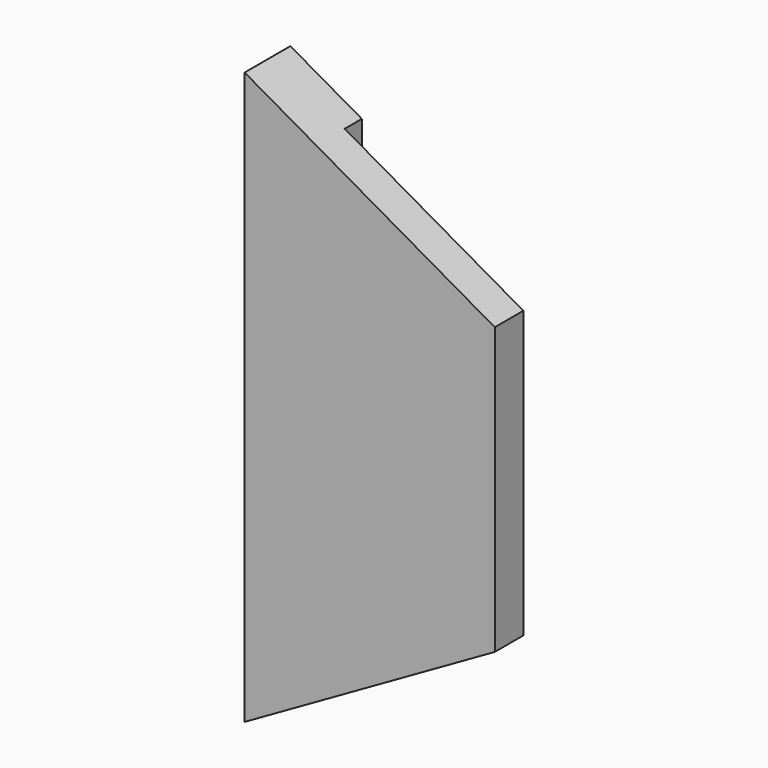
from build123d import *

# Parameters (mm, degrees)
SKETCH055_W      = 6
SKETCH055_H      = 16
EXTRUDE052_DEPTH = 1.6
EXTRUDE057_DEPTH = 1.6


with BuildPart() as extrude052:
    # Sketch055 → Extrude052 (new body)
    with BuildSketch(Plane.XZ.offset(-4.3)):
        with Locations((35, 12)):
            Rectangle(SKETCH055_W, SKETCH055_H)
    extrude(amount=EXTRUDE052_DEPTH)


with BuildPart() as switch_protector002:
    # Sketch054 → Extrude057 (new body)
    with BuildSketch(Plane.XZ.offset(-5.3)):
        Polygon((37, 16), (37, 8), (30, 4), (30, 20), align=None)
    extrude(amount=EXTRUDE057_DEPTH)

    # Cut029: cut Extrude052
    add(extrude052.part, mode=Mode.SUBTRACT)


with BuildPart() as switch_protector002_1:
    # Cut029 placement: moved
    add(switch_protector002.part.moved(Location((0, 0, -4))))


with BuildPart() as part_mirroring005:
    # Part__Mirroring005: instance of switch protector002
    add(switch_protector002_1.part.mirror(Plane(origin=(0, 0, 0), x_dir=(1, 0, 0), z_dir=(0, 1, 0))))


solid = part_mirroring005.part
